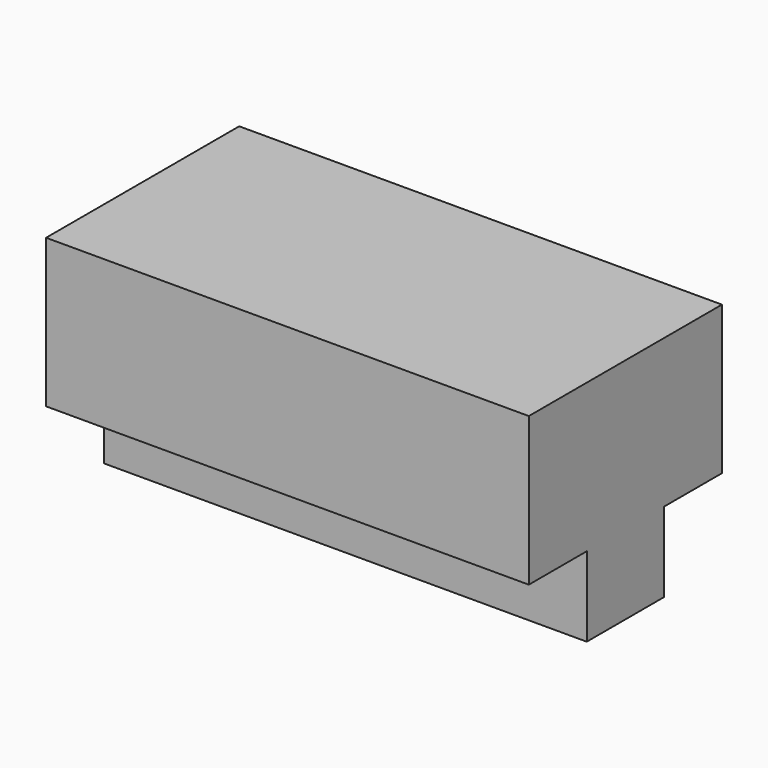
from build123d import *

# Parameters (mm, degrees)
F0_W     = 20
F0_H     = 9.45
F1_DEPTH = 10
F2_W     = 20
F2_H     = 3
F3_DEPTH = 3.3


with BuildPart() as f1:
    # F0 (on Front) → F1 (new body)
    with BuildSketch(Plane.XZ):
        with Locations((10, 4.725)):
            Rectangle(F0_W, F0_H)
    extrude(amount=F1_DEPTH)

    # F2 (on Top) → F3 (cut)
    with BuildSketch(Plane.XY):
        with Locations((10, -8.5)):
            Rectangle(F2_W, F2_H)
        with Locations((10, -1.5)):
            Rectangle(F2_W, F2_H)
    extrude(amount=F3_DEPTH, mode=Mode.SUBTRACT)


solid = f1.part
